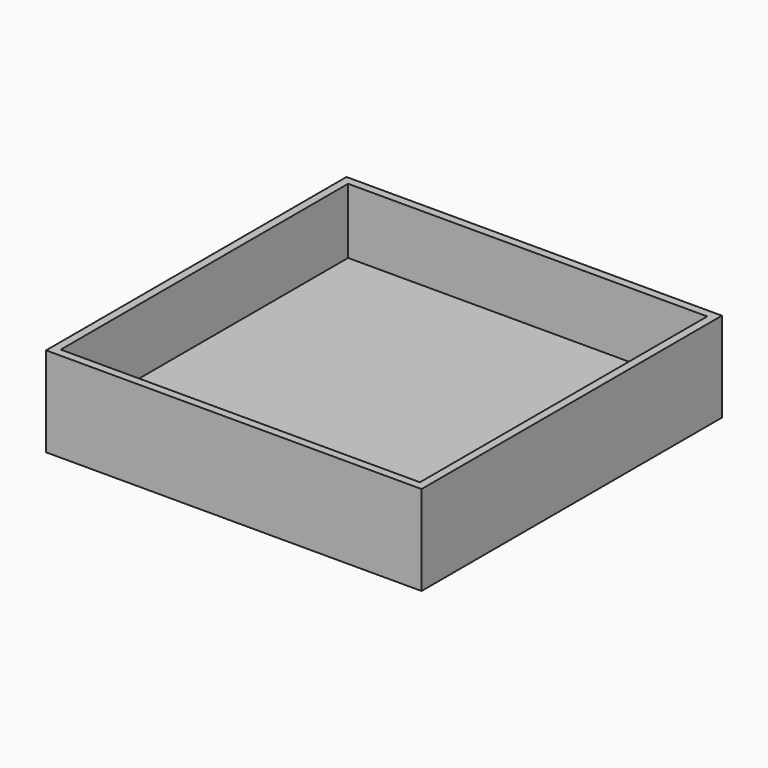
from build123d import *

# Parameters (mm, degrees)
F0_W          = 584.2
F0_H          = 584.2
F1_DEPTH      = 12.7
F2_W          = 584.2
F2_H          = 584.2
F2_W_2        = 558.8
F2_H_2        = 558.8
F3_DEPTH      = 101.6
F3_DEPTH_BACK = 38.1


with BuildPart() as f1:
    # F0 (on Top) → F1 (new body)
    with BuildSketch(Plane.XY):
        Rectangle(F0_W, F0_H)
    extrude(amount=F1_DEPTH)

    # F2 (on face) → F3 (join, two sides)
    with BuildSketch(Plane.XY.offset(12.7)) as f3_sk:
        Rectangle(F2_W, F2_H)
        Rectangle(F2_W_2, F2_H_2, mode=Mode.SUBTRACT)
    extrude(amount=F3_DEPTH)
    extrude(f3_sk.sketch, amount=-F3_DEPTH_BACK)


solid = f1.part
